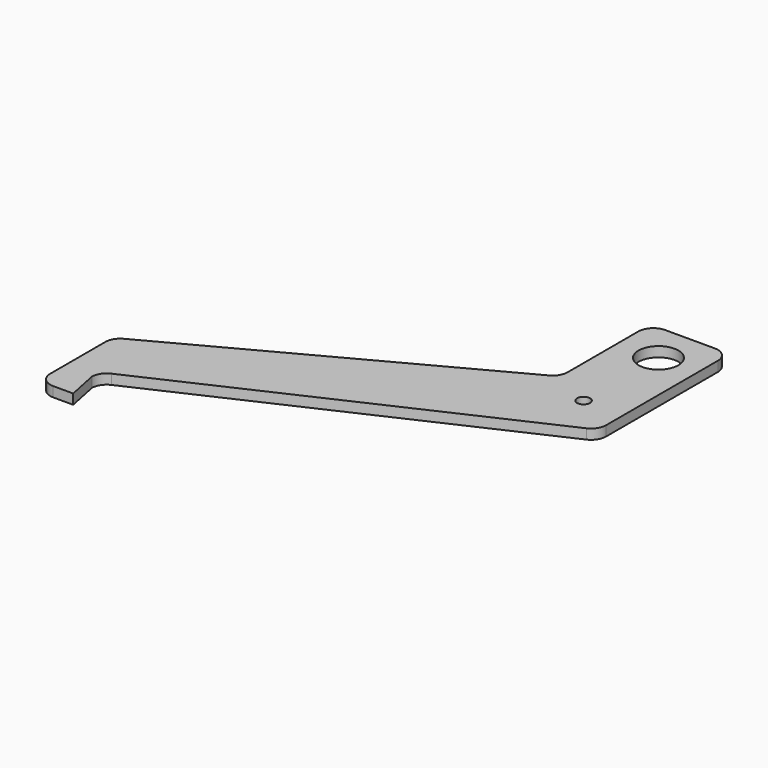
from build123d import *

# Parameters (mm, degrees)
F0_R     = 6.5
F0_R_2   = 20
F1_DEPTH = 10


with BuildPart() as f1:
    # F0 (on Top) → F1 (new body)
    with BuildSketch(Plane.XY):
        with BuildLine():
            Line((140.366762, 103.505751), (-158.918484, -56.188821))
            ThreePointArc((-158.918484, -56.188821), (-164.720206, -61.706555), (-166.857052, -69.422724))
            Line((-166.857052, -69.422724), (-166.857052, -138.506076))
            ThreePointArc((-166.857052, -138.506076), (-165.180916, -145.396261), (-160.527098, -150.746595))
            ThreePointArc((-160.527098, -150.746595), (-156.40635, -152.799567), (-151.857052, -153.506076))
            Line((-151.857052, -153.506076), (-142.060088, -153.506076))
            Line((-142.060088, -153.506076), (-131.857052, -153.506076))
            Line((-131.857052, -153.506076), (-138.314184, -121.846012))
            ThreePointArc((-138.314184, -121.846012), (-135.860571, -113.930547), (-129.578516, -108.525866))
            Line((-129.578516, -108.525866), (219.285821, 51.720148))
            ThreePointArc((219.285821, 51.720148), (225.630142, 57.220563), (228.024481, 65.268676))
            Line((228.024481, 65.268676), (228.024481, 205.523393))
            ThreePointArc((228.024481, 205.523393), (223.631082, 216.129995), (213.024481, 220.523393))
            Line((213.024481, 220.523393), (163.305104, 220.523393))
            ThreePointArc((163.305104, 220.523393), (152.698503, 216.129995), (148.305104, 205.523393))
            Line((148.305104, 205.523393), (148.305104, 116.657392))
            ThreePointArc((148.305104, 116.657392), (146.147278, 108.988242), (140.366762, 103.505751))
        make_face()
        with Locations((188.142948, 86.979855)):
            Circle(F0_R, mode=Mode.SUBTRACT)
        with Locations((188.655132, 180.372253)):
            Circle(F0_R_2, mode=Mode.SUBTRACT)
    extrude(amount=F1_DEPTH)


solid = f1.part
